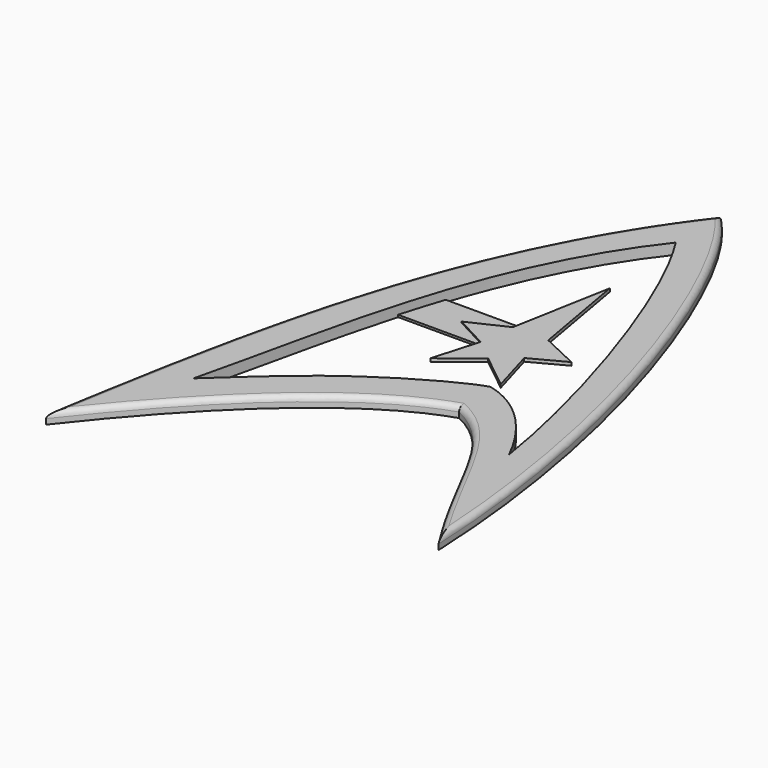
from build123d import *

# Parameters (mm, degrees)
PAD_DEPTH    = 1
FILLET_R     = 0.5
POCKET_DEPTH = 1
SKETCH003_W  = 10.2
SKETCH003_H  = 3.996945
PAD001_DEPTH = 0.2
PAD002_DEPTH = 0.3


with BuildPart() as part:
    # Sketch001 → Pad (new body)
    with BuildSketch(Plane.XY):
        with BuildLine():
            add(Edge.make_bspline(
                [(0, 43.78817), (-12.289536, 28.042601), (-15.7306, 7.8132), (-18.858877, -10.956354)],
                knots=[0, 0, 0, 0, 1, 1, 1, 1], degree=3))
            add(Edge.make_bspline(
                [(-18.858877, -10.956354), (-10.308308, 0), (-2.591932, 6.45762), (3.873133, 8.543123)],
                knots=[0, 0, 0, 0, 1, 1, 1, 1], degree=3))
            add(Edge.make_bspline(
                [(3.873133, 8.543123), (8.982622, 6.144794), (10.233923, 0), (15.656239, -8.558024)],
                knots=[0, 0, 0, 0, 1, 1, 1, 1], degree=3))
            add(Edge.make_bspline(
                [(15.656239, -8.558024), (14.613485, 15.946667), (5.332988, 38.261578), (0, 43.78817)],
                knots=[0, 0, 0, 0, 1, 1, 1, 1], degree=3))
        make_face()
    extrude(amount=PAD_DEPTH)

    # Fillet
    fillet_edges = [part.edges().sort_by_distance(p)[0] for p in [
        (-12.829649, 17.66823, 1),
        (-8.732052, 0.31512, 1),
        (10.543217, 0.647396, 1),
        (11.271646, 18.714661, 1),
    ]]
    fillet(fillet_edges, radius=FILLET_R)

    # Sketch → Pocket (cut)
    with BuildSketch(Plane.XY):
        with BuildLine():
            add(Edge.make_bspline(
                [(0.119224, 38.365856), (-8.848454, 26.999847), (-10.93396, 11.77566), (-13.853666, -0.111724)],
                knots=[0, 0, 0, 0, 1, 1, 1, 1], degree=3))
            add(Edge.make_bspline(
                [(-13.853666, -0.111724), (-7.180041, 6.040518), (-0.506425, 11.045732), (3.768858, 12.297033)],
                knots=[0, 0, 0, 0, 1, 1, 1, 1], degree=3, weights=[1, 2.160557, 1, 1]))
            add(Edge.make_bspline(
                [(3.768858, 12.297033), (7.314217, 11.462833), (9.921097, 8.021747), (11.475028, 4.824064)],
                knots=[0, 0, 0, 0, 1, 1, 1, 1], degree=3))
            add(Edge.make_bspline(
                [(11.475028, 4.824064), (9.921097, 15.008192), (4.811611, 31.066584), (0.119224, 38.365856)],
                knots=[0, 0, 0, 0, 1, 1, 1, 1], degree=3))
        make_face()
    extrude(amount=POCKET_DEPTH, mode=Mode.SUBTRACT)

    # Sketch003 → Pad001 (join)
    with BuildSketch(Plane.XY):
        with Locations((-5.1, 20.145682)):
            Rectangle(SKETCH003_W, SKETCH003_H)
    extrude(amount=PAD001_DEPTH)

    # Sketch002 → Pad002 (join)
    with BuildSketch(Plane.XY):
        Polygon((0.028302, 30.828405), (-1.644275, 21.665611), (-5.097521, 20.0411), (-2.024461, 18.404793), (-3.261668, 14.134434), (0.028302, 16.720612), (3.261668, 14.134434), (2.024461, 18.404793), (5.097521, 20.0411), (1.644275, 21.665611), align=None)
    extrude(amount=PAD002_DEPTH)


solid = part.part
